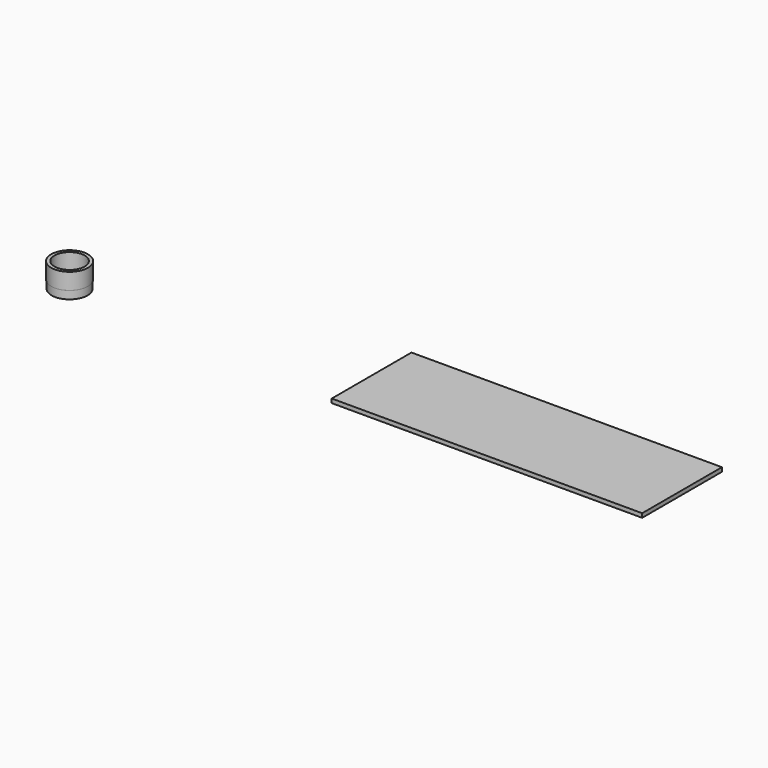
from build123d import *

# Parameters (mm, degrees)
F0_R     = 22.5
F0_R_2   = 18.5
F1_DEPTH = 30
F2_R     = 22.5
F2_R_2   = 22
F3_DEPTH = 10
F4_W     = 380.505711
F4_H     = 122.149726
F5_DEPTH = 5
F6_R     = 0.4


with BuildPart() as f1:
    # F0 (on Top) → F1 (new body)
    with BuildSketch(Plane.XY):
        Circle(F0_R)
        Circle(F0_R_2, mode=Mode.SUBTRACT)
    extrude(amount=F1_DEPTH)

    # F2 (on face) → F3 (cut)
    with BuildSketch(Plane(origin=(0, 0, 0), x_dir=(1, 0, 0), z_dir=(0, 0, -1))):
        Circle(F2_R)
        Circle(F2_R_2, mode=Mode.SUBTRACT)
    extrude(amount=-F3_DEPTH, mode=Mode.SUBTRACT)

    # F6
    f6_edges = [f1.edges().sort_by_distance(p)[0] for p in [
        (-22, 0, 10),
    ]]
    fillet(f6_edges, radius=F6_R)


with BuildPart() as f5:
    # F4 (on Top) → F5 (new body)
    with BuildSketch(Plane.XY):
        with Locations((534.235581, 32.73688)):
            Rectangle(F4_W, F4_H)
    extrude(amount=F5_DEPTH)


solid = Compound([f1.part, f5.part])
